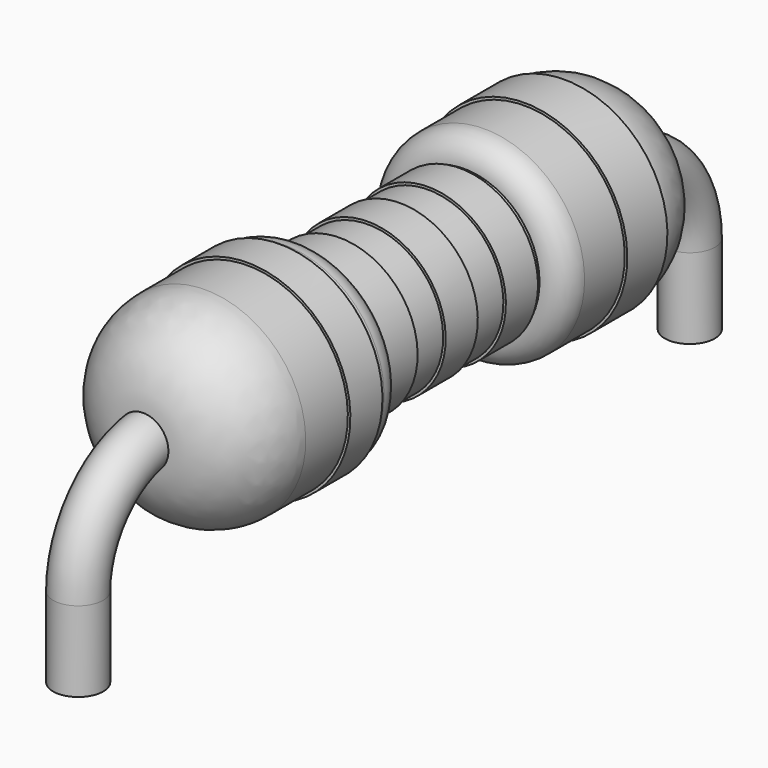
from build123d import *

# Parameters (mm, degrees)
SKETCH003_R  = 1.025
PAD_DEPTH    = 0.2
SKETCH004_R  = 0.775
PAD001_DEPTH = 0.2
SKETCH005_R  = 0.775
PAD002_DEPTH = 0.2
SKETCH006_R  = 0.775
PAD003_DEPTH = 0.2
SKETCH007_R  = 1.025
PAD004_DEPTH = 0.25
FILLET_R     = 0.249
SKETCH046_R  = 0.25


with BuildPart() as body002:
    # Sketch003 → Pad (new body, symmetric)
    with BuildSketch(Plane(origin=(0, -1.5, 0), x_dir=(0, 0, -1), z_dir=(0, -1, 0))):
        Circle(SKETCH003_R)
    extrude(amount=PAD_DEPTH, both=True)


with BuildPart() as body003:
    # Sketch004 → Pad001 (new body, symmetric)
    with BuildSketch(Plane(origin=(0, -0.75, 0), x_dir=(0, 0, -1), z_dir=(0, -1, 0))):
        Circle(SKETCH004_R)
    extrude(amount=PAD001_DEPTH, both=True)


with BuildPart() as body004:
    # Sketch005 → Pad002 (new body, symmetric)
    with BuildSketch(Plane(origin=(0, 0, 0), x_dir=(0, 0, -1), z_dir=(0, -1, 0))):
        Circle(SKETCH005_R)
    extrude(amount=PAD002_DEPTH, both=True)


with BuildPart() as body005:
    # Sketch006 → Pad003 (new body, symmetric)
    with BuildSketch(Plane(origin=(0, 0.75, 0), x_dir=(0, 0, -1), z_dir=(0, -1, 0))):
        Circle(SKETCH006_R)
    extrude(amount=PAD003_DEPTH, both=True)


with BuildPart() as body006:
    # Sketch007 → Pad004 (new body, symmetric)
    with BuildSketch(Plane(origin=(0, 2, 0), x_dir=(0, 0, -1), z_dir=(0, -1, 0))):
        Circle(SKETCH007_R)
    extrude(amount=PAD004_DEPTH, both=True)


with BuildPart() as bodysimple:
    # Sketch044 → Revolution009 (revolve)
    with BuildSketch(Plane(origin=(0, 0, 0), x_dir=(0, -1, 0), z_dir=(1, 0, 0))):
        with BuildLine():
            Line((0, 0), (0, 0.75))
            Line((0, 0.75), (-1, 0.75))
            Line((-1, 0.75), (-1, 1))
            Line((-1, 1), (-2.225, 1))
            ThreePointArc((-2.225, 1), (-2.773008, 0.773008), (-3, 0.225))
            Line((-3, 0), (-3, 0.225))
            Line((-3, 0), (0, 0))
        make_face()
    revolution009 = revolve(axis=Axis((0, 0, 0), (0, 1, 0)))

    # Mirrored013: Revolution009 across XZ
    add(revolution009.mirror(Plane.XZ))

    # Fillet
    fillet_edges = [bodysimple.edges().sort_by_distance(p)[0] for p in [
        (0, -1, 1),
        (0, 1, 1),
    ]]
    fillet(fillet_edges, radius=FILLET_R)


with BuildPart() as obj1:
    # AdditivePipe001: sweep along a path in Sketch045
    with BuildLine(Plane.YZ) as additivepipe001_path:
        Line((0, 0), (-2.81, 0))
        ThreePointArc((-2.81, 0), (-3.517107, -0.292893), (-3.81, -1))
        Line((-3.81, -1), (-3.81, -1.8))
    # Sketch046 → AdditivePipe001 (sweep)
    with BuildSketch(Plane(origin=(0, 0, 0), x_dir=(0, 0, -1), z_dir=(0, -1, 0))):
        Circle(SKETCH046_R)
    additivepipe001 = sweep(path=additivepipe001_path.line)

    # Mirrored014: AdditivePipe001 across XZ
    add(additivepipe001.mirror(Plane.XZ))


solid = Compound([body002.part, body003.part, body004.part, body005.part, body006.part, bodysimple.part, obj1.part])
